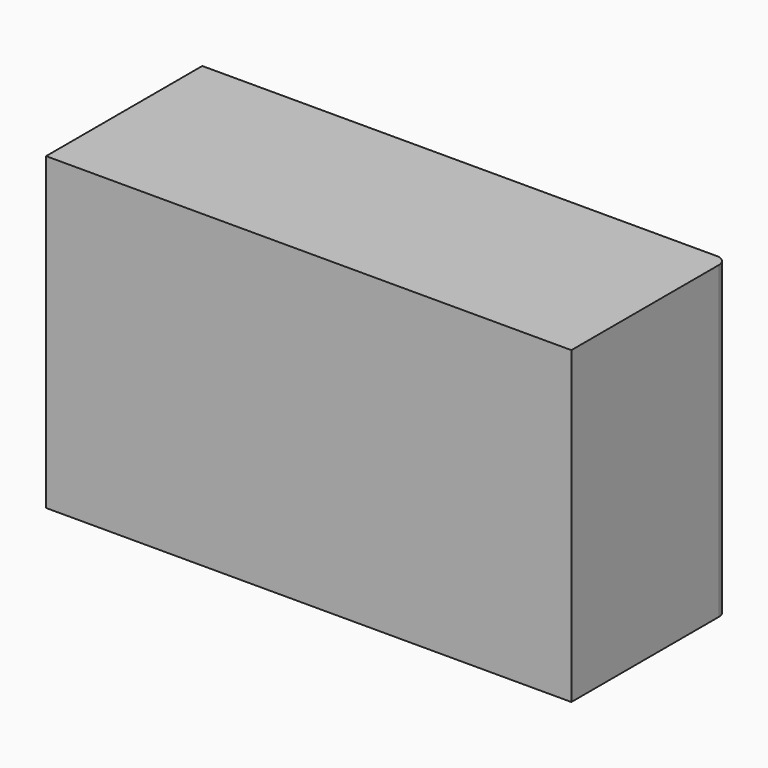
from build123d import *

# Parameters (mm, degrees)
F0_W     = 247.208178
F0_H     = 145.787596
F1_DEPTH = 91.88254
F2_R     = 5.08


with BuildPart() as f1:
    # F0 (on Front) → F1 (new body)
    with BuildSketch(Plane.XZ):
        Rectangle(F0_W, F0_H)
    extrude(amount=-F1_DEPTH)

    # F2
    f2_edges = [f1.edges().sort_by_distance(p)[0] for p in [
        (123.604089, 91.88254, 0),
    ]]
    fillet(f2_edges, radius=F2_R)


solid = f1.part
